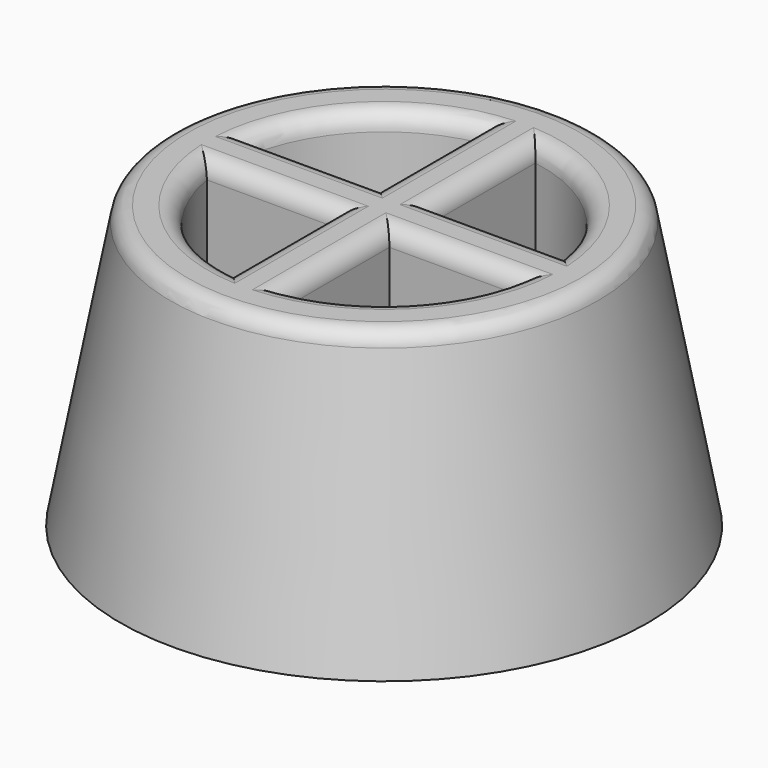
from build123d import *

# Parameters (mm, degrees)
F3_DEPTH = 5.5
F4_R     = 0.5


with BuildPart() as f1:
    # F0 (on Front) → F1 (revolve)
    with BuildSketch(Plane.XZ):
        Polygon((0, 2.5), (0, 0), (7.5, 0), (6, 8), (4.5, 8), (4.5, 2.5), align=None)
    revolve(axis=Axis((0, 0, 1.25), (0, 0, -1)))

    # F2 (on face) → F3 (join, through all)
    with BuildSketch(Plane.XY.offset(2.5)):
        Polygon((-0.75, 0.75), (-5, 0.75), (-5, -0.75), (-0.75, -0.75), (-0.75, -5), (0.75, -5), (0.75, -0.75), (5, -0.75), (5, 0.75), (0.75, 0.75), (0.75, 5), (-0.75, 5), align=None)
    extrude(amount=F3_DEPTH)

    # F4
    f4_edges = [f1.edges().sort_by_distance(p)[0] for p in [
        (-6, 0, 8),
        (-2.59353, -0.75, 8),
        (-0.75, -2.59353, 8),
        (-3.181981, -3.181981, 8),
        (-3.181981, 3.181981, 8),
        (-2.59353, 0.75, 8),
        (-0.75, 2.59353, 8),
        (0.75, 2.59353, 8),
        (3.181981, 3.181981, 8),
        (2.59353, 0.75, 8),
        (2.59353, -0.75, 8),
        (3.181981, -3.181981, 8),
        (0.75, -2.59353, 8),
    ]]
    fillet(f4_edges, radius=F4_R)


solid = f1.part
